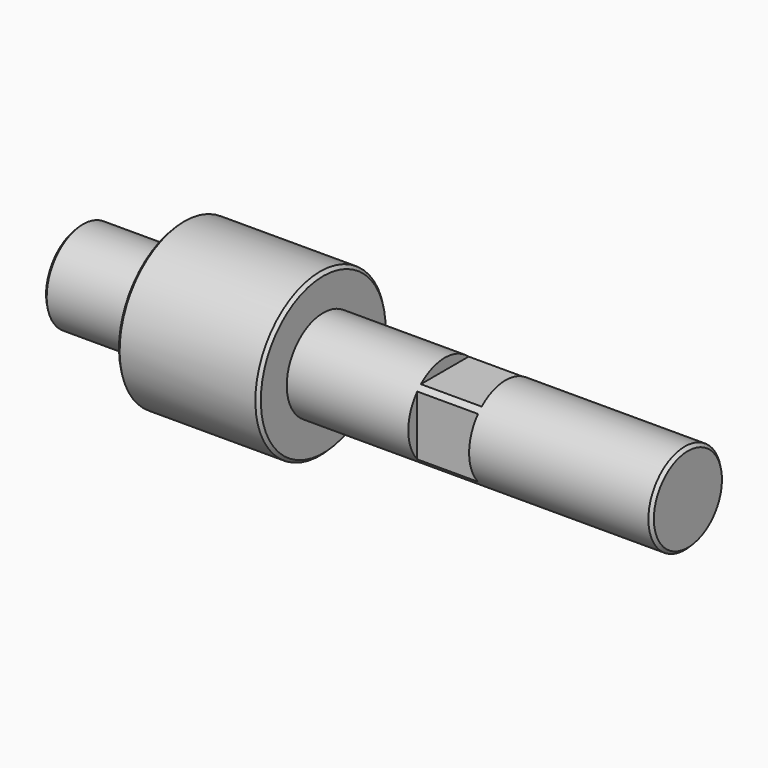
from build123d import *

# Parameters (mm, degrees)
F2_SIZE   = 0.3
F3_SIZE   = 0.3
F4_SIZE   = 0.3
F7_W      = 6
F7_H      = 6
F8_DEPTH  = 1.1
F10_W     = 6
F10_H     = 6
F11_DEPTH = 1.1
F13_D     = 5
F13_DEPTH = 15
F13_TIP   = 1.5021515476


with BuildPart() as f1:
    # F0 (on Front) → F1 (revolve)
    with BuildSketch(Plane.XZ):
        Polygon((-26.3235288649, 4.5), (-26.3235288649, 0), (33.6764711351, 0), (33.6764711351, 4.5), (-2.3235288649, 4.5), (-2.3235288649, 8), (-16.3235288649, 8), (-16.3235288649, 4.5), align=None)
    revolve(axis=Axis((3.6764711351, 0, 0), (1, 0, 0)))

    # F2
    f2_edges = [f1.edges().sort_by_distance(p)[0] for p in [
        (33.676471, 0, -4.5),
    ]]
    chamfer(f2_edges, length=F2_SIZE)

    # F3
    f3_edges = [f1.edges().sort_by_distance(p)[0] for p in [
        (-2.323529, 0, -8),
        (-16.323529, 0, -8),
        (-9.323529, 0, 8),
    ]]
    chamfer(f3_edges, length=F3_SIZE)

    # F4
    f4_edges = [f1.edges().sort_by_distance(p)[0] for p in [
        (-26.323529, 0, -4.5),
    ]]
    chamfer(f4_edges, length=F4_SIZE)

    # F7 (on offset) → F8 (cut)
    with BuildSketch(Plane.XZ.offset(4.5)):
        with Locations((12.6764711351, 0)):
            Rectangle(F7_W, F7_H)
    extrude(amount=-F8_DEPTH, mode=Mode.SUBTRACT)

    # F10 (on offset) → F11 (cut)
    with BuildSketch(Plane.XY.offset(4.5)):
        with Locations((12.6764711351, 0)):
            Rectangle(F10_W, F10_H)
    extrude(amount=-F11_DEPTH, mode=Mode.SUBTRACT)

    # F13
    with Locations(Plane(origin=(-26.3235288649, 0, 0), x_dir=(0, -1, 0), z_dir=(-1, 0, 0))):
        with Locations((0, 0)):
            Hole(F13_D / 2, depth=F13_DEPTH)
            with Locations((0, 0, -(F13_DEPTH + F13_TIP / 2))):  # 118° drill point
                Cone(0, F13_D / 2, F13_TIP, mode=Mode.SUBTRACT)


solid = f1.part
